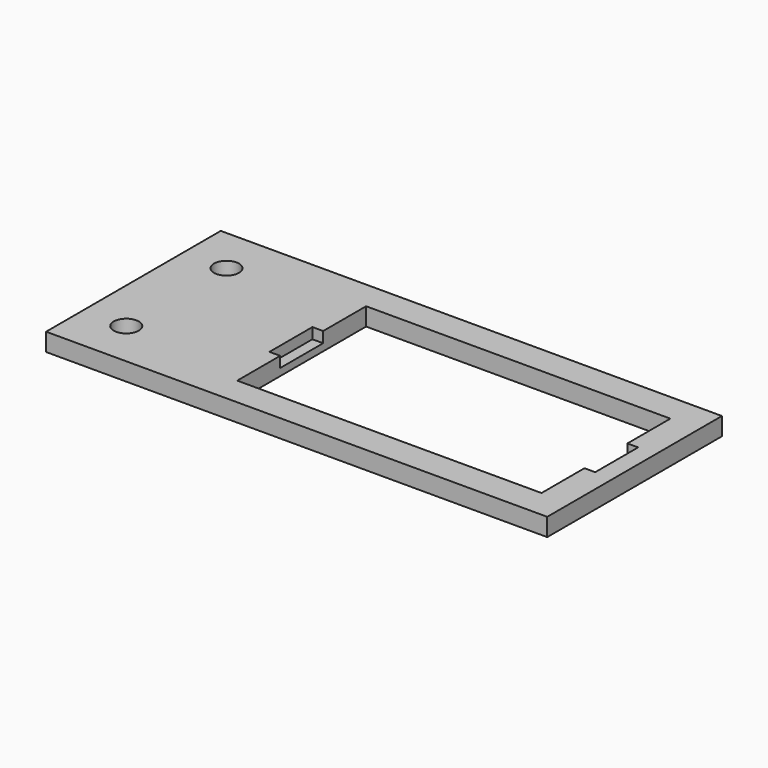
from build123d import *

# Parameters (mm, degrees)
F0_W     = 140
F0_H     = 61
F0_R     = 3.5
F0_W_2   = 85
F0_H_2   = 45
F1_DEPTH = 5
F2_W     = 3
F2_H     = 15
F3_DEPTH = 3


with BuildPart() as f1:
    # F0 (on Top) → F1 (new body)
    with BuildSketch(Plane.XY):
        with Locations((23, 22.5)):
            Rectangle(F0_W, F0_H)
        with Locations((-35, 5)):
            Circle(F0_R, mode=Mode.SUBTRACT)
        with Locations((-35, 40)):
            Circle(F0_R, mode=Mode.SUBTRACT)
        with Locations((42.5, 22.5)):
            Rectangle(F0_W_2, F0_H_2, mode=Mode.SUBTRACT)
    extrude(amount=F1_DEPTH)

    # F2 (on face) → F3 (cut)
    with BuildSketch(Plane.XY.offset(5)):
        with Locations((-1.5, 22.5)):
            Rectangle(F2_W, F2_H)
        with Locations((86.5, 22.5)):
            Rectangle(F2_W, F2_H)
    extrude(amount=-F3_DEPTH, mode=Mode.SUBTRACT)


solid = f1.part
